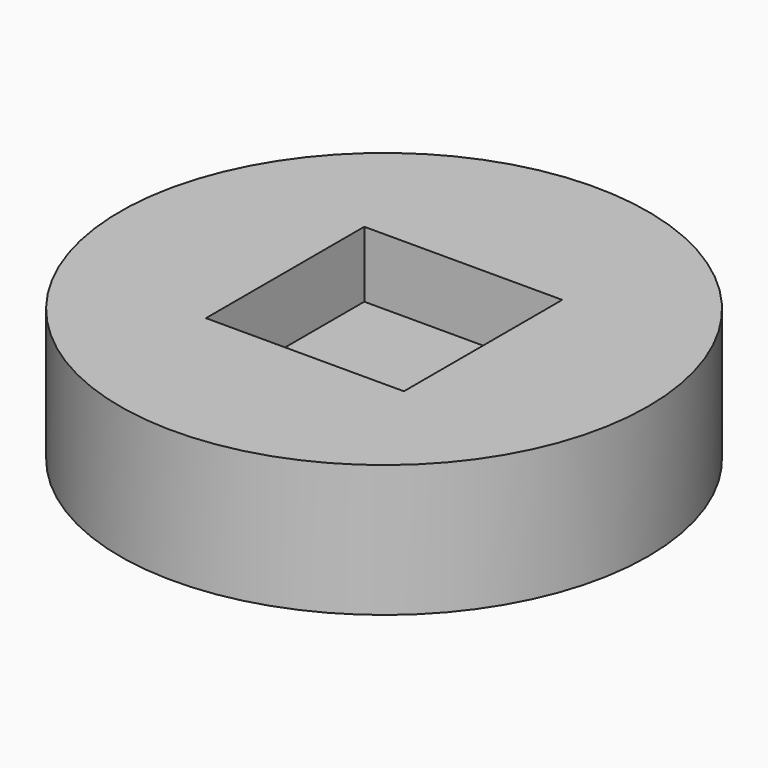
from build123d import *

# Parameters (mm, degrees)
F0_R     = 4
F1_DEPTH = 2
F2_W     = 3
F2_H     = 3
F3_DEPTH = 1


with BuildPart() as f1:
    # F0 (on Top) → F1 (new body)
    with BuildSketch(Plane.XY):
        Circle(F0_R)
    extrude(amount=-F1_DEPTH)

    # F2 (on face) → F3 (cut)
    with BuildSketch(Plane.XY):
        Rectangle(F2_W, F2_H)
    extrude(amount=-F3_DEPTH, mode=Mode.SUBTRACT)


solid = f1.part
